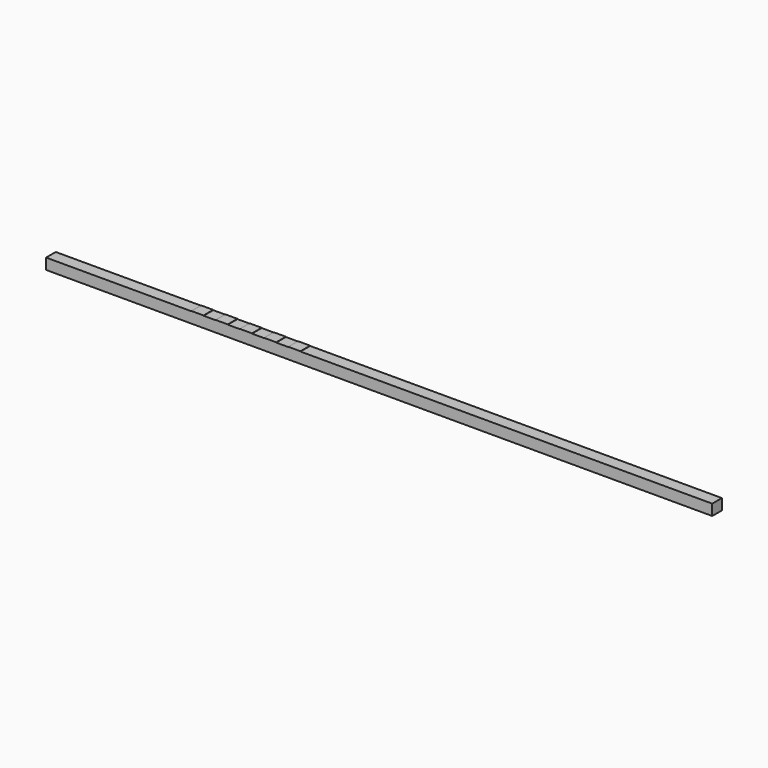
from build123d import *

# Parameters (mm, degrees)
F0_W     = 152.4
F0_H     = 12.7
F0_W_2   = 12.7
F0_W_3   = 368.3
F1_DEPTH = 11.43
F2_DEPTH = 11.684


with BuildPart() as f1:
    # F0 (on Top) → F1 (new body)
    with BuildSketch(Plane.XY):
        with Locations((-273.05, 0)):
            Rectangle(F0_W, F0_H)
        with Locations((-190.5, 0)):
            Rectangle(F0_W_2, F0_H)
        with Locations((-177.8, 0)):
            Rectangle(F0_W_2, F0_H)
        with Locations((-165.1, 0)):
            Rectangle(F0_W_2, F0_H)
        with Locations((-152.4, 0)):
            Rectangle(F0_W_2, F0_H)
        with Locations((-139.7, 0)):
            Rectangle(F0_W_2, F0_H)
        with Locations((-127, 0)):
            Rectangle(F0_W_2, F0_H)
        with Locations((-114.3, 0)):
            Rectangle(F0_W_2, F0_H)
        with Locations((-101.6, 0)):
            Rectangle(F0_W_2, F0_H)
        with Locations((-88.9, 0)):
            Rectangle(F0_W_2, F0_H)
        with Locations((-76.2, 0)):
            Rectangle(F0_W_2, F0_H)
        with Locations((-63.5, 0)):
            Rectangle(F0_W_2, F0_H)
        with Locations((-50.8, 0)):
            Rectangle(F0_W_2, F0_H)
        with Locations((-38.1, 0)):
            Rectangle(F0_W_2, F0_H)
        with Locations((-25.4, 0)):
            Rectangle(F0_W_2, F0_H)
        with Locations((165.1, 0)):
            Rectangle(F0_W_3, F0_H)
    extrude(amount=F1_DEPTH)

    # F0 (on Top) → F2 (join)
    with BuildSketch(Plane.XY):
        with Locations((-190.5, 0)):
            Rectangle(F0_W_2, F0_H)
        with Locations((-165.1, 0)):
            Rectangle(F0_W_2, F0_H)
        with Locations((-139.7, 0)):
            Rectangle(F0_W_2, F0_H)
        with Locations((-114.3, 0)):
            Rectangle(F0_W_2, F0_H)
        with Locations((-88.9, 0)):
            Rectangle(F0_W_2, F0_H)
    extrude(amount=F2_DEPTH)


solid = f1.part
